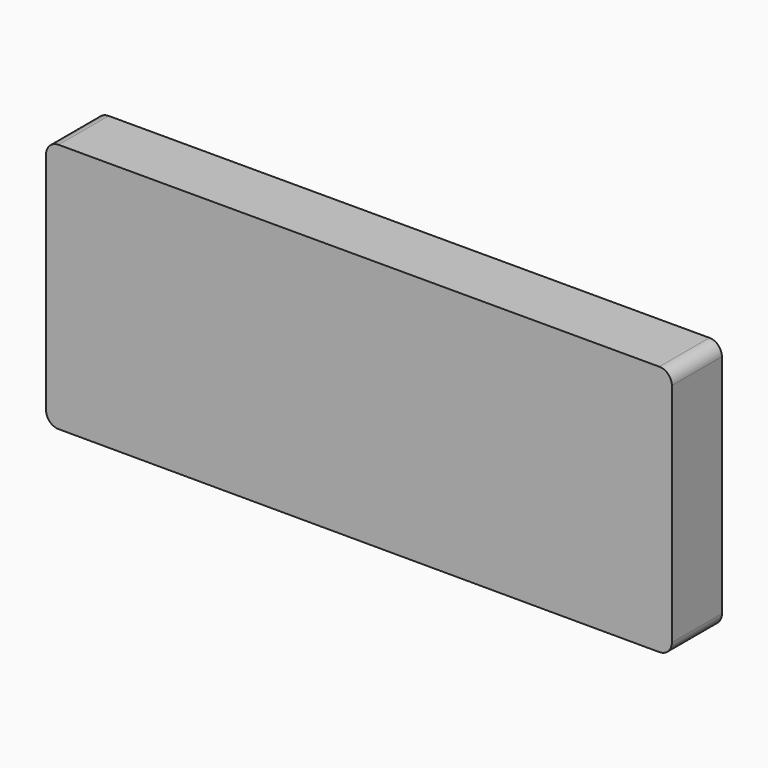
from build123d import *

# Parameters (mm, degrees)
F1_DEPTH = 25.4
F2_R     = 5.08
F3_R     = 5.08


with BuildPart() as f1:
    # F0 (on Front) → F1 (new body)
    with BuildSketch(Plane.XZ):
        Polygon((118.762286, 37.117315), (-135.237714, 37.117315), (-135.237714, -64.482685), (118.762286, -64.877713), align=None)
    extrude(amount=F1_DEPTH)

    # F2
    f2_edges = [f1.edges().sort_by_distance(p)[0] for p in [
        (-135.237714, -12.7, 37.117315),
    ]]
    fillet(f2_edges, radius=F2_R)

    # F3
    f3_edges = [f1.edges().sort_by_distance(p)[0] for p in [
        (118.762286, -12.7, 37.117315),
        (118.762286, -12.7, -64.877713),
        (-135.237714, -12.7, -64.482685),
    ]]
    fillet(f3_edges, radius=F3_R)


solid = f1.part
